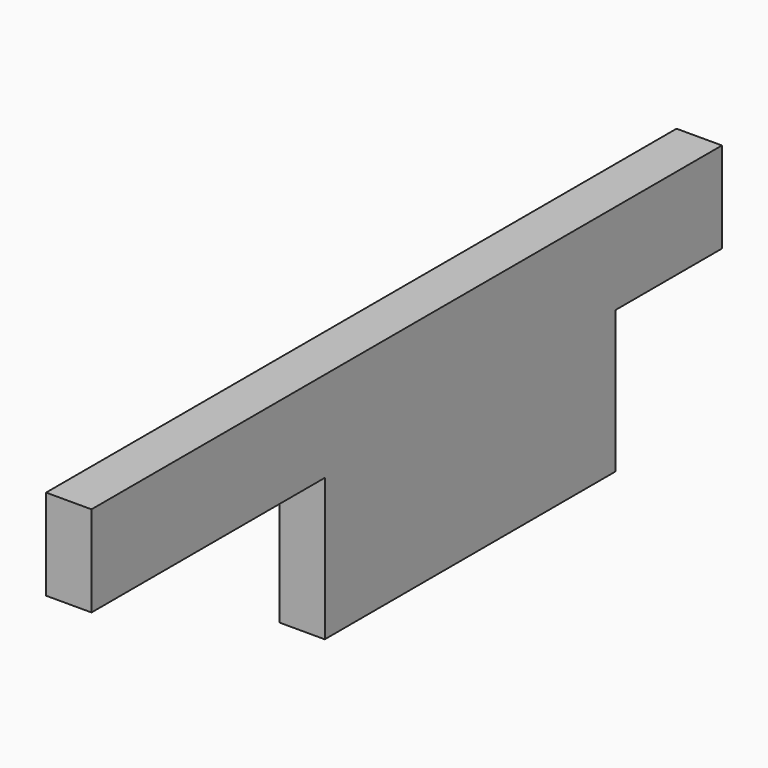
from build123d import *

# Parameters (mm, degrees)
F0_W     = 12.7
F0_H     = 12.7
F0_W_2   = 16.6463264701
F0_H_2   = 19.4120164664
F0_H_3   = 25.4
F0_W_3   = 37.2585436921
F1_DEPTH = 12.7


with BuildPart() as f1:
    # F0 (on Right) → F1 (new body)
    with BuildSketch(Plane.YZ):
        Polygon((70.4794496269, 65.1633257237), (16.6463264701, 65.1633257237), (16.6463264701, 52.4633257237), (29.3463264701, 52.4633257237), (29.3463264701, 39.7633257237), (29.3463264701, 20.3513092572), (16.6463264701, 20.3513092572), (16.6463264701, 0), (118.2463264701, 0), (118.2463264701, 39.7633257237), (105.5463264701, 39.7633257237), (70.4794496269, 39.1371292737), align=None)
        Polygon((16.6463264701, 52.4633257237), (16.6463264701, 65.1633257237), (-64.9154511925, 65.1633257237), (-64.9154511925, 39.7633257237), (0, 39.7633257237), (0, 52.4633257237), align=None)
        with Locations((22.9963264701, 46.1133257237)):
            Rectangle(F0_W, F0_H)
        with Locations((8.323163235, 46.1133257237)):
            Rectangle(F0_W_2, F0_H)
        Polygon((88.5021024941, 65.1633257237), (70.4794496269, 65.1633257237), (70.4794496269, 39.1371292737), (105.5463264701, 39.7633257237), (105.5463264701, 65.1633257237), (94.1378517022, 65.1633257237), align=None)
        with Locations((22.9963264701, 30.0573174905)):
            Rectangle(F0_W, F0_H_2)
        with Locations((111.8963264701, 52.4633257237)):
            Rectangle(F0_W, F0_H_3)
        with Locations((136.8755983161, 52.4633257237)):
            Rectangle(F0_W_3, F0_H_3)
    extrude(amount=F1_DEPTH)


solid = f1.part
